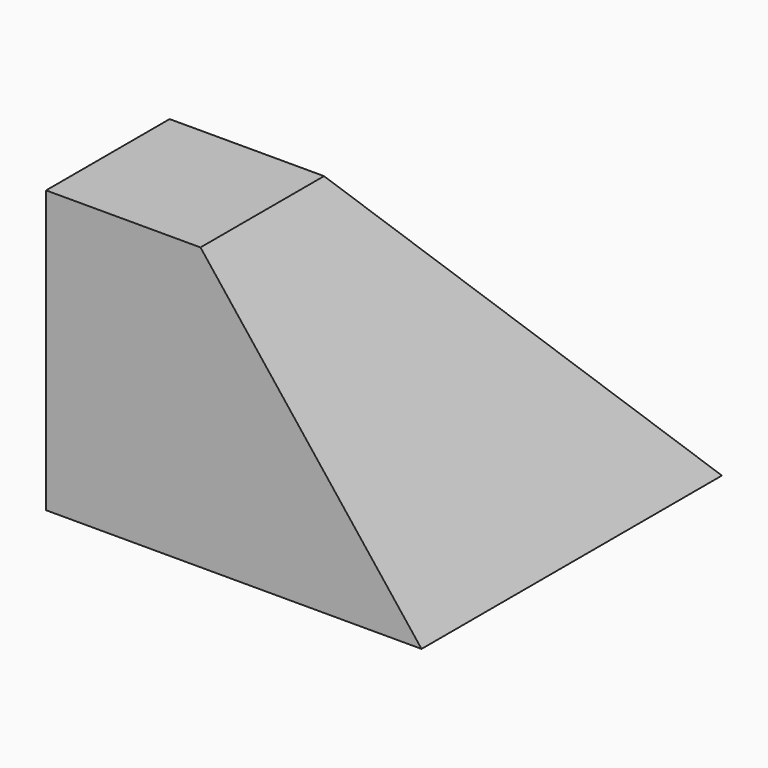
from build123d import *

# Parameters (mm, degrees)
BOX020_W     = 100
BOX020_H     = 100
BOX020_DEPTH = 75
SKETCH054_W  = 275
SKETCH054_H  = 275
SKETCH055_W  = 0.1
SKETCH055_H  = 0.1


with BuildPart() as cube002:
    # Box020 → Box020 (new body)
    with BuildSketch(Plane(origin=(175, 175, 0), x_dir=(1, 0, 0), z_dir=(0, 0, 1))):
        with Locations((50, 50)):
            Rectangle(BOX020_W, BOX020_H)
    extrude(amount=BOX020_DEPTH)


with BuildPart() as legs003:
    # Sketch054 → Loft019 section 0
    with BuildSketch(Plane.XY):
        with Locations((137.5, 137.5)):
            Rectangle(SKETCH054_W, SKETCH054_H)
    # Sketch055 → Loft019 section 1
    with BuildSketch(Plane.XY.offset(175.1)):
        with Locations((137.5, 137.5)):
            Rectangle(SKETCH055_W, SKETCH055_H)
    loft()

    # Common014: intersect Cube002
    add(cube002.part, mode=Mode.INTERSECT)


with BuildPart() as legs003_1:
    # Common014 placement: moved
    add(legs003.part.moved(Location((58.87, 58.87, -75))))


solid = legs003_1.part
